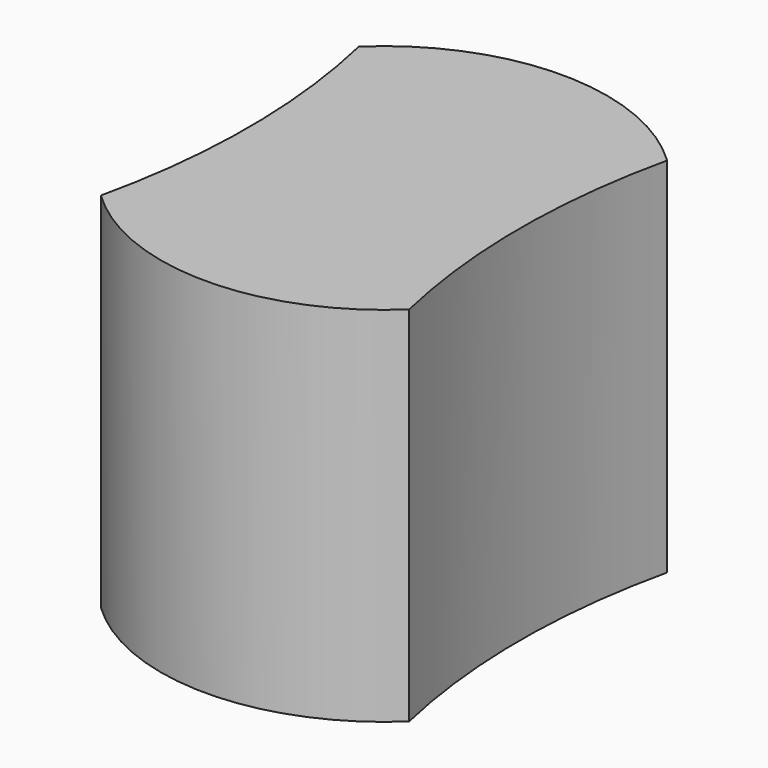
from build123d import *

# Parameters (mm, degrees)
PAD_DEPTH = 10


with BuildPart() as part:
    # Sketch → Pad (new body)
    with BuildSketch(Plane.XY):
        with BuildLine():
            ThreePointArc((8, 24.444097), (7.5, 20), (8, 15.555903))
            ThreePointArc((-0.5, 15.555903), (3.75, 13.850813), (8, 15.555903))
            ThreePointArc((-0.5, 15.555903), (0, 20), (-0.5, 24.444097))
            ThreePointArc((8, 24.444097), (3.75, 26.149187), (-0.5, 24.444097))
        make_face()
    extrude(amount=PAD_DEPTH)


solid = part.part
